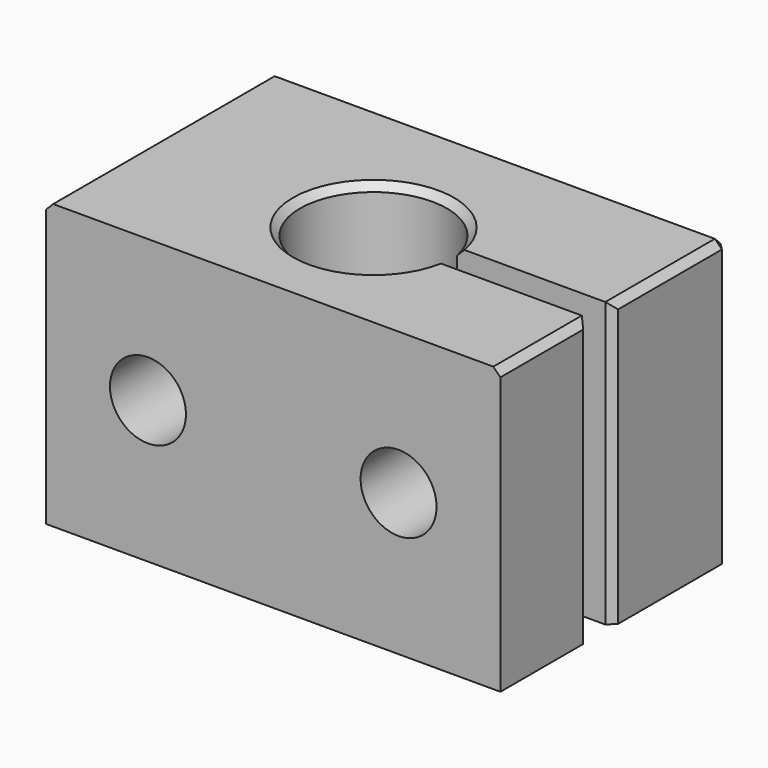
from build123d import *

# Parameters (mm, degrees)
F1_DEPTH = 20
F2_R     = 2.675
F3_DEPTH = 20
F2_R_2   = 5.175
F4_DEPTH = 5
F5_SIZE  = 0.5


with BuildPart() as f1:
    # F0 (on Top) → F1 (new body)
    with BuildSketch(Plane.XY):
        with BuildLine():
            Line((14.923915, 11.175), (-17.076085, 11.175))
            Line((-17.076085, 11.175), (-17.076085, -8.825))
            Line((-17.076085, -8.825), (14.923915, -8.825))
            Line((14.923915, -8.825), (14.923915, -1.035))
            Line((14.923915, -1.035), (3.994358, -1.035))
            ThreePointArc((3.994358, -1.035), (-6.251085, 0), (3.994358, 1.035))
            Line((3.994358, 1.035), (14.923915, 1.035))
            Line((14.923915, 1.035), (14.923915, 11.175))
        make_face()
    extrude(amount=F1_DEPTH)

    # F2 (on face) → F3 (cut)
    with BuildSketch(Plane(origin=(0, 11.175, 0), x_dir=(-1, 0, 0), z_dir=(0, 1, 0))):
        with Locations((-7.748915, 10)):
            Circle(F2_R)
        with Locations((9.901085, 10)):
            Circle(F2_R)
    extrude(amount=-F3_DEPTH, mode=Mode.SUBTRACT)

    # F2 (on face) → F4 (cut)
    with BuildSketch(Plane(origin=(0, 11.175, 0), x_dir=(-1, 0, 0), z_dir=(0, 1, 0))):
        with Locations((-7.748915, 10)):
            Circle(F2_R_2)
        with Locations((-7.748915, 10)):
            Circle(F2_R, mode=Mode.SUBTRACT)
        with Locations((9.901085, 10)):
            Circle(F2_R_2)
        with Locations((9.901085, 10)):
            Circle(F2_R, mode=Mode.SUBTRACT)
    extrude(amount=-F4_DEPTH, mode=Mode.SUBTRACT)

    # F5
    f5_edges = [f1.edges().sort_by_distance(p)[0] for p in [
        (14.923915, -1.035, 10),
        (-17.076085, 1.175, 20),
        (-1.076085, 11.175, 20),
        (-17.076085, 11.175, 10),
        (14.923915, 11.175, 10),
        (14.923915, 6.105, 20),
        (14.923915, -4.93, 20),
        (-6.251085, 0, 20),
        (14.923915, 1.035, 10),
        (-1.076085, 11.175, 0),
    ]]
    chamfer(f5_edges, length=F5_SIZE)


solid = f1.part
